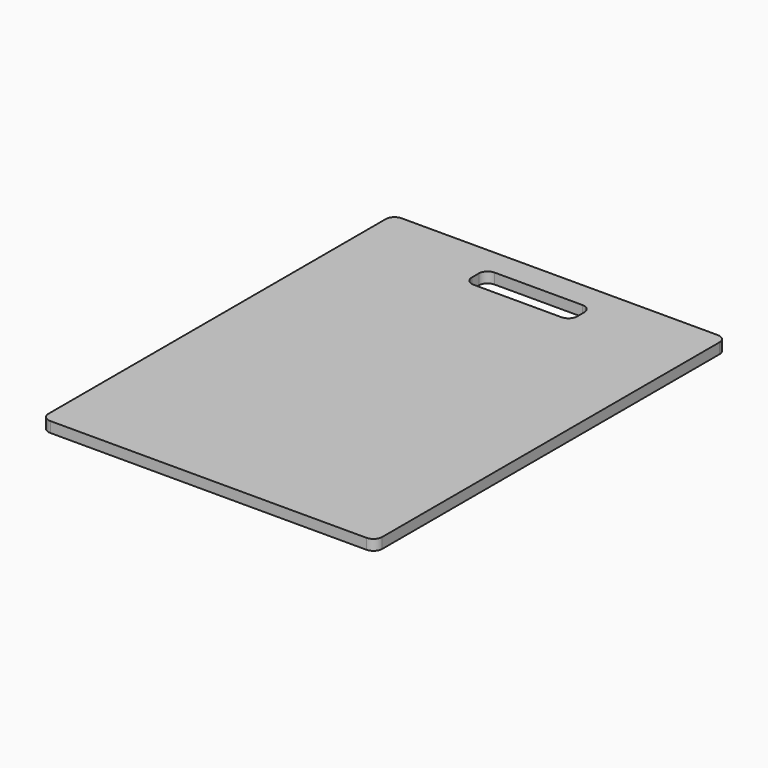
from build123d import *

# Parameters (mm, degrees)
F0_W     = 380
F0_H     = 500
F0_W_2   = 120
F0_H_2   = 30
F1_DEPTH = 12
F2_R     = 10


with BuildPart() as f1:
    # F0 (on Top) → F1 (new body)
    with BuildSketch(Plane.XY):
        Rectangle(F0_W, F0_H)
        with Locations((0, 205)):
            Rectangle(F0_W_2, F0_H_2, mode=Mode.SUBTRACT)
    extrude(amount=F1_DEPTH)

    # F2
    f2_edges = [f1.edges().sort_by_distance(p)[0] for p in [
        (-190, 250, 6),
        (190, 250, 6),
        (60, 190, 6),
        (60, 220, 6),
        (-60, 220, 6),
        (-60, 190, 6),
        (190, -250, 6),
        (-190, -250, 6),
    ]]
    fillet(f2_edges, radius=F2_R)


solid = f1.part
